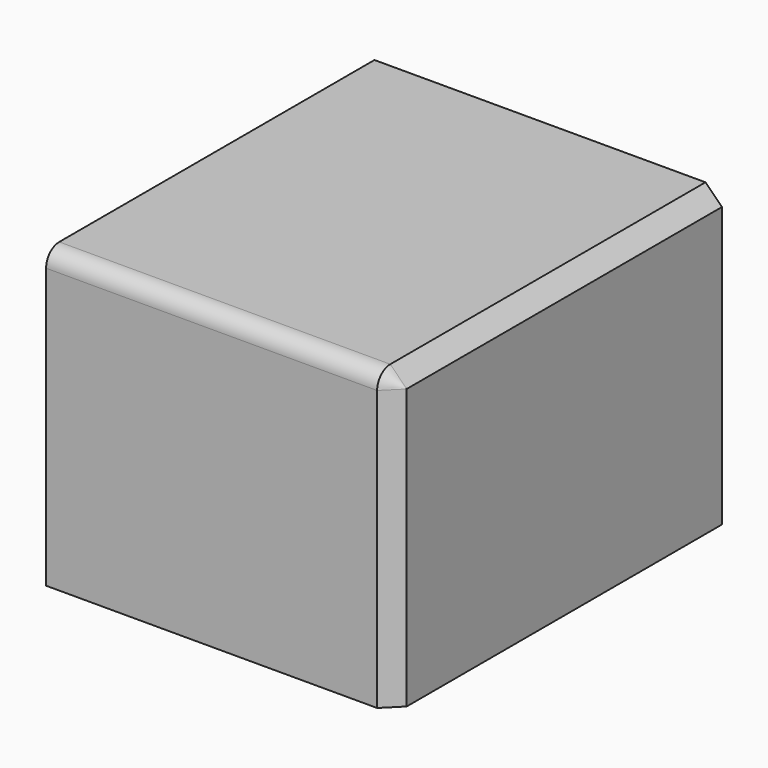
from build123d import *

# Parameters (mm, degrees)
F0_W     = 107.513439
F0_H     = 91.573946
F1_DEPTH = 127
F2_R     = 5.08
F3_SIZE  = 5.08


with BuildPart() as f1:
    # F0 (on Front) → F1 (new body)
    with BuildSketch(Plane.XZ):
        with Locations((3.750467, 4.219279)):
            Rectangle(F0_W, F0_H)
    extrude(amount=-F1_DEPTH)

    # F2
    f2_edges = [f1.edges().sort_by_distance(p)[0] for p in [
        (3.750468, 0, 50.006252),
    ]]
    fillet(f2_edges, radius=F2_R)

    # F3
    f3_edges = [f1.edges().sort_by_distance(p)[0] for p in [
        (57.507187, 66.04, 50.006252),
    ]]
    chamfer(f3_edges, length=F3_SIZE)


solid = f1.part
